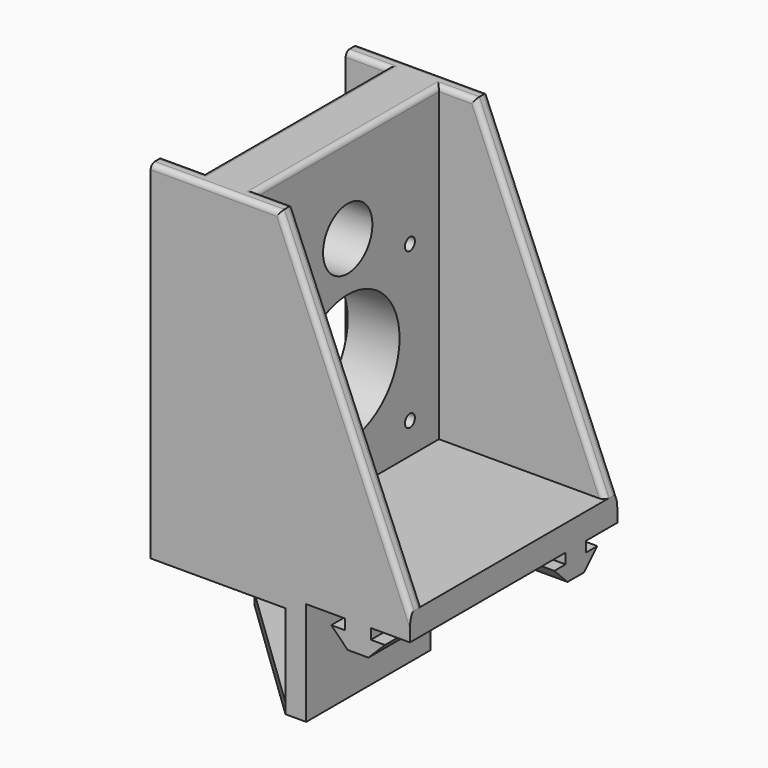
from build123d import *

# Parameters (mm, degrees)
SKETCH_W        = 50
SKETCH_H        = 85
PAD_DEPTH       = 50
POCKET_DEPTH    = 50
POCKET001_DEPTH = 30
SKETCH004_W     = 16
SKETCH004_H     = 26
POCKET002_DEPTH = 26
SKETCH005_R     = 2
POCKET003_DEPTH = 4
POCKET005_DEPTH = 4
SKETCH008_W     = 44
SKETCH008_H     = 60
POCKET006_DEPTH = 32
SKETCH009_R     = 12.5
SKETCH009_R_2   = 5.95
SKETCH009_R_3   = 1.19841
POCKET007_DEPTH = 18.001
SKETCH010_W     = 44
SKETCH010_H     = 60
POCKET008_DEPTH = 8
POCKET009_DEPTH = 50.001
FILLET_R        = 1


with BuildPart() as part:
    # Sketch → Pad (new body)
    with BuildSketch(Plane.YZ):
        Rectangle(SKETCH_W, SKETCH_H)
    extrude(amount=PAD_DEPTH)

    # Sketch001 (on Face6 of Pad) → Pocket (cut)
    with BuildSketch(Plane.YZ.offset(50)):
        Polygon((5, -22.5), (5, -42.5), (25, -42.5), (25, -22.5), (17.48396, -22.5), (17.48396, -24.5), (20.18396, -24.5), (17, -27.68), (13, -27.68), (9.81604, -24.5), (12.51604, -24.5), (12.51604, -22.5), align=None)
    extrude(amount=-POCKET_DEPTH, mode=Mode.SUBTRACT)

    # Sketch003 (on Face2 of Pocket) → Pocket001 (cut)
    with BuildSketch(Plane(origin=(0, -25, 0), x_dir=(0, 0, -1), z_dir=(0, -1, 0))):
        Polygon((42.5, 50), (22.5, 50), (22.5, 42.48), (24.5, 42.48), (24.5, 45.18), (27.68, 42), (27.68, 38), (24.5, 34.82), (24.5, 37.52), (22.5, 37.52), (22.5, 30), (42.5, 30), align=None)
    extrude(amount=-POCKET001_DEPTH, mode=Mode.SUBTRACT)

    # Sketch004 (on Face2 of Pocket001) → Pocket002 (cut)
    with BuildSketch(Plane(origin=(0, -25, 0), x_dir=(0, 0, -1), z_dir=(0, -1, 0))):
        with Locations((32.5, 13)):
            Rectangle(SKETCH004_W, SKETCH004_H)
    extrude(amount=-POCKET002_DEPTH, mode=Mode.SUBTRACT)

    # Sketch005 (on Face30 of Pocket002) → Pocket003 (cut)
    with BuildSketch(Plane(origin=(0, 1, 0), x_dir=(0, 0, -1), z_dir=(0, -1, 0))):
        with Locations((32.5, 13)):
            Circle(SKETCH005_R)
    extrude(amount=-POCKET003_DEPTH, mode=Mode.SUBTRACT)

    # Sketch007 → Pocket005 (cut)
    with BuildSketch(Plane.YX.offset(42.5)):
        Polygon((-25.002718, 26), (-25, 0), (0, 0), align=None)
    extrude(amount=-POCKET005_DEPTH, mode=Mode.SUBTRACT)

    # Sketch008 (on Face5 of Pocket005) → Pocket006 (cut)
    with BuildSketch(Plane.YZ.offset(50)):
        with Locations((0, 12.5)):
            Rectangle(SKETCH008_W, SKETCH008_H)
    extrude(amount=-POCKET006_DEPTH, mode=Mode.SUBTRACT)

    # Sketch009 (on Face6 of Pocket006) → Pocket007 (cut, through all)
    with BuildSketch(Plane.YZ.offset(18)):
        with Locations((0, 3.5)):
            Circle(SKETCH009_R)
        with Locations((0, 25.5)):
            Circle(SKETCH009_R_2)
        with Locations((-15, 18.5)):
            Circle(SKETCH009_R_3)
        with Locations((-15, -11.5)):
            Circle(SKETCH009_R_3)
        with Locations((15, -11.5)):
            Circle(SKETCH009_R_3)
        with Locations((15, 18.5)):
            Circle(SKETCH009_R_3)
    extrude(amount=-POCKET007_DEPTH, mode=Mode.SUBTRACT)

    # Sketch010 (on Face2 of Pocket007) → Pocket008 (cut)
    with BuildSketch(Plane(origin=(0, 0, 0), x_dir=(0, 1, 0), z_dir=(-1, 0, 0))):
        with Locations((0, -12.5)):
            Rectangle(SKETCH010_W, SKETCH010_H)
    extrude(amount=-POCKET008_DEPTH, mode=Mode.SUBTRACT)

    # Sketch011 (on Face11 of Pocket008) → Pocket009 (cut, through all)
    with BuildSketch(Plane(origin=(0, -25, 0), x_dir=(0, 0, -1), z_dir=(0, -1, 0))):
        Polygon((-42.5, 50), (-42.5, 25), (17.5, 50), align=None)
    extrude(amount=-POCKET009_DEPTH, mode=Mode.SUBTRACT)

    # Fillet
    fillet_edges = [part.edges().sort_by_distance(p)[0] for p in [
        (8, 0, 42.5),
        (12.5, -25, 42.5),
        (4, -22, 42.5),
        (12.5, 25, 42.5),
        (37.5, 22, 12.5),
        (37.5, 25, 12.5),
        (18, 0, 42.5),
        (21.5, 22, 42.5),
        (21.5, -22, 42.5),
        (4, 22, 42.5),
        (37.5, -25, 12.5),
        (37.5, -22, 12.5),
    ]]
    fillet(fillet_edges, radius=FILLET_R)


solid = part.part
